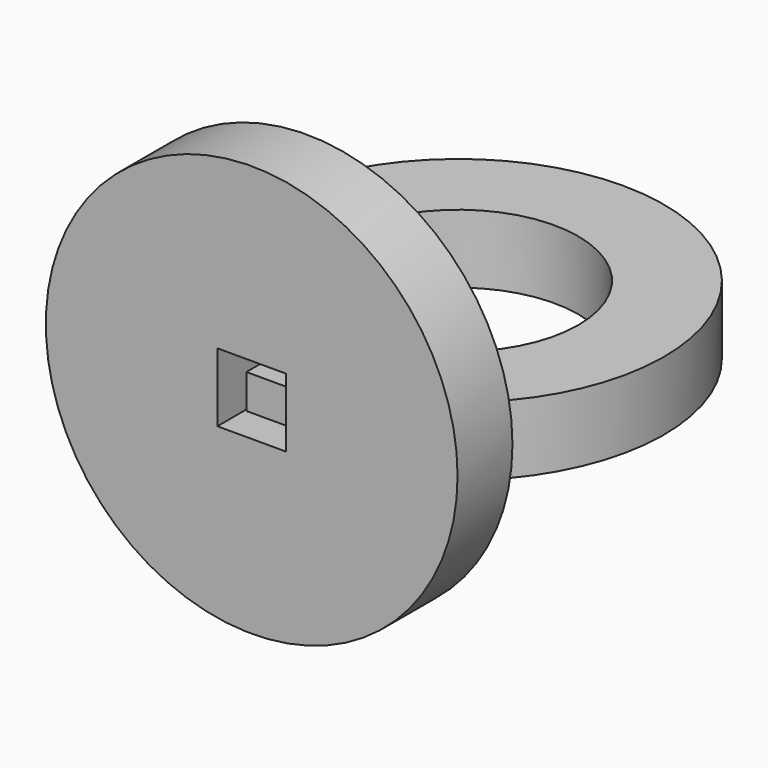
from build123d import *

# Parameters (mm, degrees)
F0_R     = 38.1
F1_DEPTH = 12.7
F2_R     = 22.225
F3_DEPTH = 12.7


with BuildPart() as f1:
    # F0 (on Front) → F1 (new body)
    with BuildSketch(Plane.XZ):
        Circle(F0_R)
        Polygon((-6.35, 0), (-6.35, 6.35), (0, 6.35), (6.35, 6.35), (6.35, -6.35), (-6.35, -6.35), align=None, mode=Mode.SUBTRACT)
    extrude(amount=F1_DEPTH)

    # F2 (on Top) → F3 (join)
    with BuildSketch(Plane.XY):
        with BuildLine():
            ThreePointArc((26.144302, 0), (26.417088, 5.50585), (28.997098, 10.377435))
            ThreePointArc((28.997098, 10.377435), (0, 73.191364), (-28.997098, 10.377435))
            ThreePointArc((-28.997098, 10.377435), (-26.417088, 5.50585), (-26.144302, 0))
            Line((-26.144302, 0), (-6.061642, 0))
            Line((-6.061642, 0), (-6.061642, -6.35))
            Line((-6.061642, -6.35), (6.417282, -6.35))
            Line((6.417282, -6.35), (6.417282, 0))
            Line((6.417282, 0), (26.144302, 0))
        make_face()
        with Locations((0, 35.091364)):
            Circle(F2_R, mode=Mode.SUBTRACT)
    extrude(amount=-F3_DEPTH)


solid = f1.part
